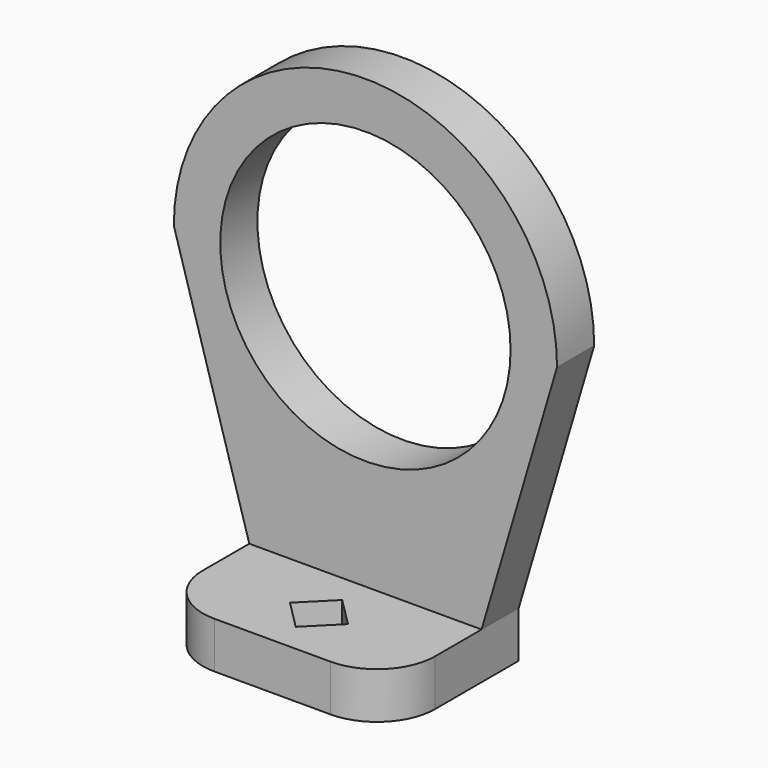
from build123d import *

# Parameters (mm, degrees)
F1_DEPTH = 14
F0_R     = 12.5
F2_DEPTH = 4
F3_R     = 5
F5_DEPTH = 4


with BuildPart() as f1:
    # F0 (on Front) → F1 (new body)
    with BuildSketch(Plane.XZ):
        Polygon((-10, 0), (0, 0), (10, 0), (10, 4), (-10, 4), align=None)
    extrude(amount=F1_DEPTH)

    # F0 (on Front) → F2 (join)
    with BuildSketch(Plane.XZ):
        with BuildLine():
            Line((-16.5, 26), (-10, 4))
            Line((-10, 4), (10, 4))
            Line((10, 4), (16.5, 26))
            ThreePointArc((16.5, 26), (0, 42.5), (-16.5, 26))
        make_face()
        with Locations((0, 26)):
            Circle(F0_R, mode=Mode.SUBTRACT)
    extrude(amount=F2_DEPTH)

    # F3
    f3_edges = [f1.edges().sort_by_distance(p)[0] for p in [
        (-10, -14, 2),
        (10, -14, 2),
    ]]
    fillet(f3_edges, radius=F3_R)

    # F4 (on face) → F5 (cut)
    with BuildSketch(Plane.XY.offset(4)):
        Polygon((-2.5, -9), (0, -9), (0, -6.5), align=None)
        Polygon((0, -6.5), (0, -9), (2.5, -9), align=None)
        Polygon((2.5, -9), (0, -9), (0, -11.5), align=None)
        Polygon((0, -11.5), (0, -9), (-2.5, -9), align=None)
    extrude(amount=-F5_DEPTH, mode=Mode.SUBTRACT)


solid = f1.part
